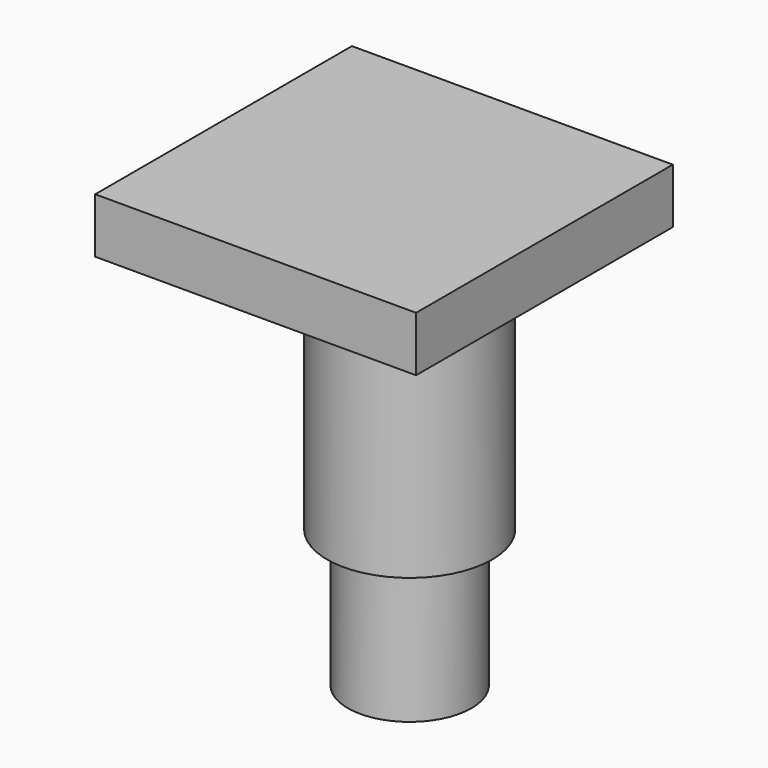
from build123d import *

# Parameters (mm, degrees)
F1_R     = 6.75
F2_DEPTH = 15
F3_R     = 9
F4_DEPTH = 35
F5_W     = 35
F5_H     = 35
F5_R     = 9
F6_DEPTH = 6


with BuildPart() as f2:
    # F1 (on offset) → F2 (new body)
    with BuildSketch(Plane.XY.offset(40)):
        Circle(F1_R)
    extrude(amount=-F2_DEPTH)

    # F3 (on offset) → F4 (join)
    with BuildSketch(Plane.XY.offset(40)):
        Circle(F3_R)
    extrude(amount=F4_DEPTH)

    # F5 (on face) → F6 (join)
    with BuildSketch(Plane.XY.offset(75)):
        with Locations((0, -3.5)):
            Rectangle(F5_W, F5_H)
        Circle(F5_R, mode=Mode.SUBTRACT)
    extrude(amount=-F6_DEPTH)


solid = f2.part
